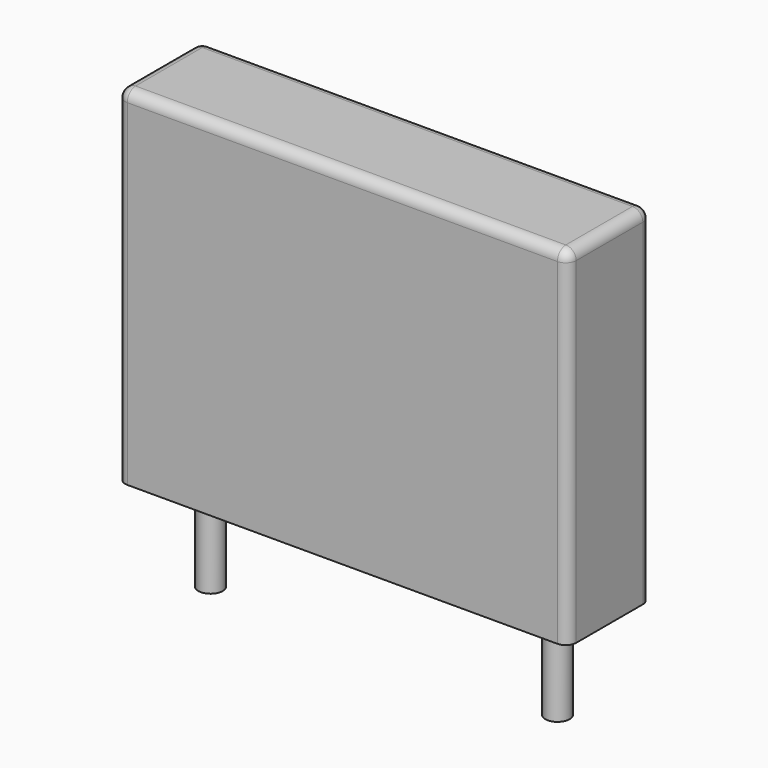
from build123d import *

# Parameters (mm, degrees)
SKETCH_W     = 13
SKETCH_H     = 3
PAD_DEPTH    = 10
FILLET_R     = 0.3
SKETCH001_R  = 0.35
PAD001_DEPTH = 3.2


with BuildPart() as fillet_body:
    # Sketch → Pad (new body)
    with BuildSketch(Plane.XY.offset(0.1)):
        with Locations((5, 0)):
            Rectangle(SKETCH_W, SKETCH_H)
    extrude(amount=PAD_DEPTH)

    # Fillet
    fillet_edges = [fillet_body.edges().sort_by_distance(p)[0] for p in [
        (-1.5, 0, 10.1),
        (-1.5, -1.5, 5.1),
        (5, -1.5, 10.1),
        (11.5, -1.5, 5.1),
        (11.5, 0, 10.1),
        (11.5, 1.5, 5.1),
        (5, 1.5, 10.1),
        (-1.5, 1.5, 5.1),
    ]]
    fillet(fillet_edges, radius=FILLET_R)


with BuildPart() as pad001:
    # Sketch001 → Pad001 (new body)
    with BuildSketch(Plane.XY.offset(0.5)):
        Circle(SKETCH001_R)
        with Locations((10, 0)):
            Circle(SKETCH001_R)
    extrude(amount=-PAD001_DEPTH)


solid = Compound([fillet_body.part, pad001.part])
